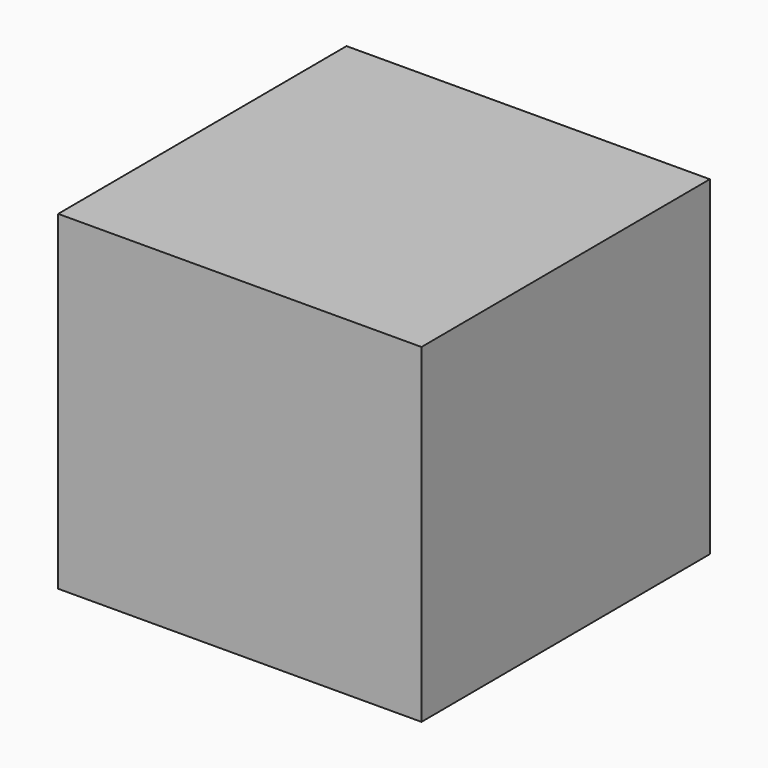
from build123d import *

# Parameters (mm, degrees)
F1_DEPTH = 50.8


with BuildPart() as f1:
    # F0 (on Top) → F1 (new body, symmetric)
    with BuildSketch(Plane.XY):
        Polygon((55.9632778168, -55.5260665715), (55.5260665715, 55.9632778168), (-55.9632778168, 55.5260665715), (-55.5260665715, -55.9632778168), align=None)
    extrude(amount=F1_DEPTH, both=True)


solid = f1.part
